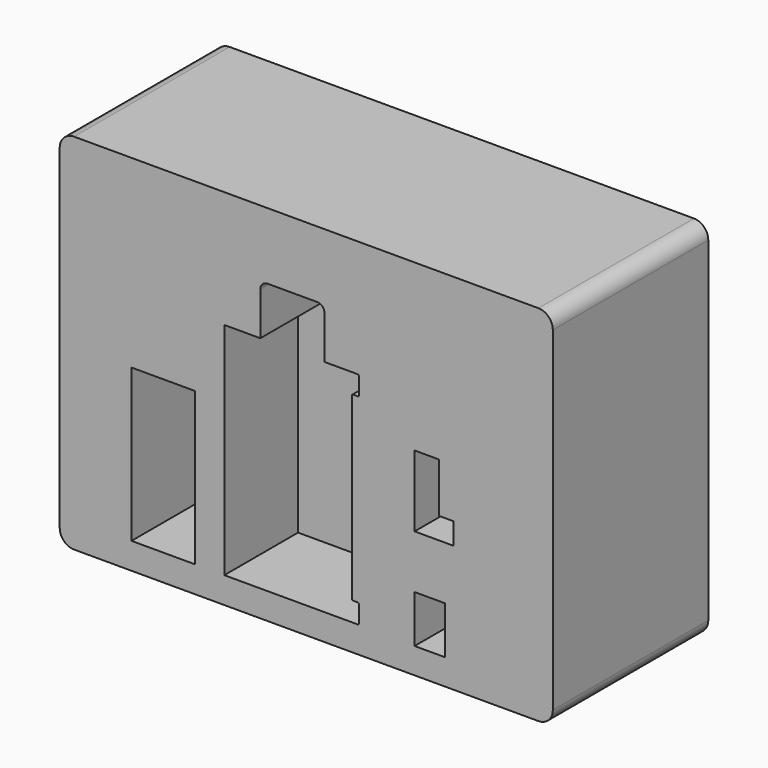
from build123d import *

# Parameters (mm, degrees)
F1_DEPTH  = 270
F2_W      = 88
F2_H      = 212
F3_DEPTH  = 178
F4_W      = 68
F4_H      = 172
F5_DEPTH  = 5
F7_DEPTH  = 128
F8_W      = 42
F8_H      = 66
F9_DEPTH  = 163
F11_DEPTH = 146


with BuildPart() as f1:
    # F0 (on Front) → F1 (new body)
    with BuildSketch(Plane.XZ):
        with BuildLine():
            Line((-20, 505), (-665, 505))
            ThreePointArc((-665, 505), (-679.142136, 499.142136), (-685, 485))
            Line((-685, 485), (-685, 20))
            ThreePointArc((-685, 20), (-679.142136, 5.857864), (-665, 0))
            Line((-665, 0), (-20, 0))
            ThreePointArc((-20, 0), (-5.857864, 5.857864), (0, 20))
            Line((0, 20), (0, 485))
            ThreePointArc((0, 485), (-5.857864, 499.142136), (-20, 505))
        make_face()
    extrude(amount=-F1_DEPTH)

    # F2 (on face) → F3 (cut)
    with BuildSketch(Plane.XZ):
        with Locations((-541.250854, 142.595568)):
            Rectangle(F2_W, F2_H)
    extrude(amount=-F3_DEPTH, mode=Mode.SUBTRACT)

    # F4 (on face) → F5 (cut)
    with BuildSketch(Plane.XZ.offset(-178)):
        with Locations((-541.250854, 142.595568)):
            Rectangle(F4_W, F4_H)
    extrude(amount=-F5_DEPTH, mode=Mode.SUBTRACT)

    # F6 (on face) → F7 (cut)
    with BuildSketch(Plane.XZ):
        with BuildLine():
            Line((-456.298642, 342.595568), (-456.298642, 36.595568))
            Line((-456.298642, 36.595568), (-279.298642, 36.595568))
            Line((-279.298642, 36.595568), (-271.298642, 36.595568))
            ThreePointArc((-271.298642, 36.595568), (-269.884428, 37.181354), (-269.298642, 38.595568))
            Line((-269.298642, 38.595568), (-269.298642, 61.595568))
            ThreePointArc((-269.298642, 61.595568), (-269.884428, 63.009782), (-271.298642, 63.595568))
            Line((-271.298642, 63.595568), (-277.298642, 63.595568))
            ThreePointArc((-277.298642, 63.595568), (-278.712855, 64.181354), (-279.298642, 65.595568))
            Line((-279.298642, 65.595568), (-279.298642, 313.595568))
            ThreePointArc((-279.298642, 313.595568), (-278.712855, 315.009782), (-277.298642, 315.595568))
            Line((-277.298642, 315.595568), (-271.298642, 315.595568))
            ThreePointArc((-271.298642, 315.595568), (-269.884428, 316.181354), (-269.298642, 317.595568))
            Line((-269.298642, 317.595568), (-269.298642, 340.595568))
            ThreePointArc((-269.298642, 340.595568), (-269.884428, 342.009782), (-271.298642, 342.595568))
            Line((-271.298642, 342.595568), (-317.298642, 342.595568))
            Line((-317.298642, 342.595568), (-317.298642, 402.595568))
            ThreePointArc((-317.298642, 402.595568), (-320.227574, 409.666636), (-327.298642, 412.595568))
            Line((-327.298642, 412.595568), (-396.298642, 412.595568))
            ThreePointArc((-396.298642, 412.595568), (-403.36971, 409.666636), (-406.298642, 402.595568))
            Line((-406.298642, 402.595568), (-406.298642, 342.595568))
            Line((-406.298642, 342.595568), (-456.298642, 342.595568))
        make_face()
    extrude(amount=-F7_DEPTH, mode=Mode.SUBTRACT)

    # F8 (on face) → F9 (cut)
    with BuildSketch(Plane.XZ):
        with Locations((-171, 68.898773)):
            Rectangle(F8_W, F8_H)
    extrude(amount=-F9_DEPTH, mode=Mode.SUBTRACT)

    # F10 (on face) → F11 (cut)
    with BuildSketch(Plane.XZ):
        Polygon((-192, 275.058829), (-192, 176.058829), (-138, 176.058829), (-138, 206.058829), (-158, 206.058829), (-158, 275.058829), align=None)
    extrude(amount=-F11_DEPTH, mode=Mode.SUBTRACT)


solid = f1.part
